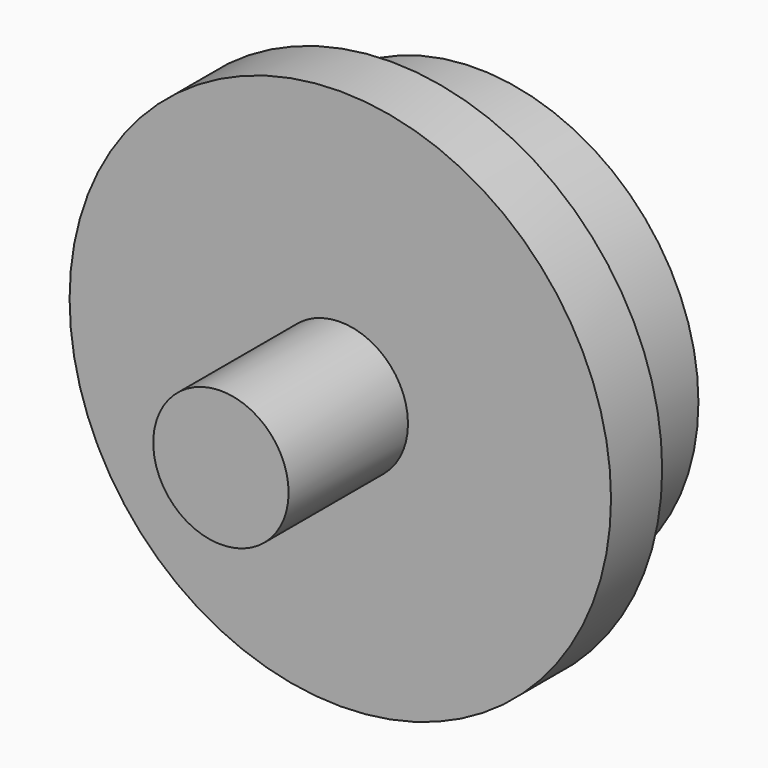
from build123d import *

# Parameters (mm, degrees)
F0_R     = 10.4
F1_DEPTH = 5
F0_R_2   = 12.7
F2_DEPTH = 3
F3_R     = 3.175
F4_DEPTH = 7


with BuildPart() as f1:
    # F0 (on Front) → F1 (new body)
    with BuildSketch(Plane.XZ):
        Circle(F0_R)
    extrude(amount=-F1_DEPTH)

    # F0 (on Front) → F2 (join)
    with BuildSketch(Plane.XZ):
        Circle(F0_R_2)
        Circle(F0_R, mode=Mode.SUBTRACT)
        Circle(F0_R)
    extrude(amount=F2_DEPTH)

    # F3 (on face) → F4 (join)
    with BuildSketch(Plane.XZ.offset(3)):
        Circle(F3_R)
    extrude(amount=F4_DEPTH)


solid = f1.part
